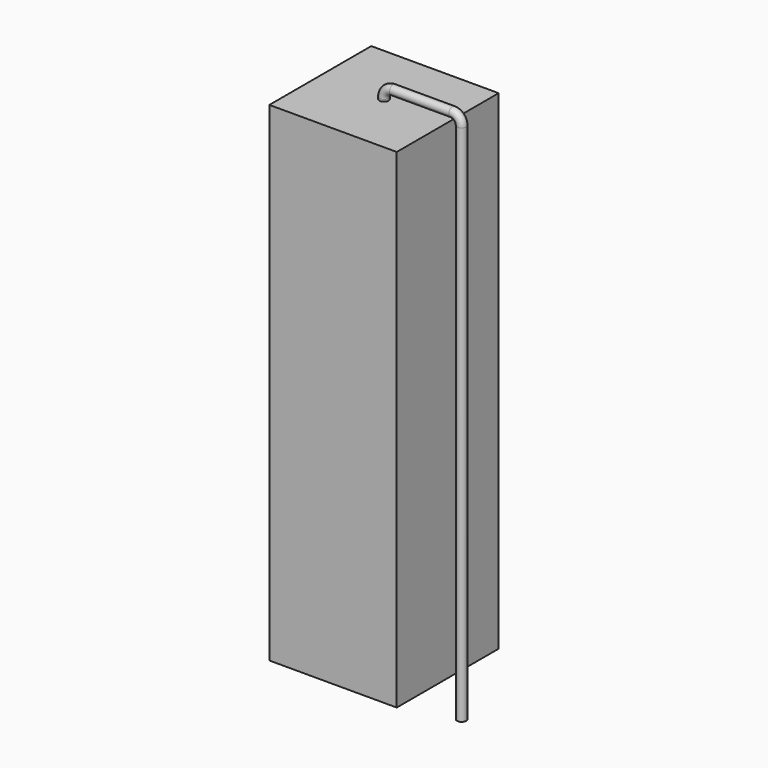
from build123d import *

# Parameters (mm, degrees)
SKETCH_R    = 0.45
SKETCH002_W = 12.5
SKETCH002_H = 48
PAD_DEPTH   = 6.25


with BuildPart() as sweep_body:
    # Sweep: sweep along a path in Sketch001
    with BuildLine(Plane.XZ) as sweep_path:
        Line((0, -3), (0, 48.3))
        ThreePointArc((0, 48.3), (0.263608, 48.9364), (0.900012, 49.2))
        Line((0.900012, 49.2), (6.72, 49.2))
        ThreePointArc((6.72, 49.2), (7.356396, 48.936396), (7.62, 48.3))
        Line((7.62, 48.3), (7.62, -3))
    # Sketch → Sweep (sweep)
    with BuildSketch(Plane.XY.offset(-2)):
        Circle(SKETCH_R)
    sweep(path=sweep_path.line)


with BuildPart() as pad:
    # Sketch002 → Pad (new body, symmetric)
    with BuildSketch(Plane.XZ):
        with Locations((0, 24.1)):
            Rectangle(SKETCH002_W, SKETCH002_H)
    extrude(amount=PAD_DEPTH, both=True)


solid = Compound([sweep_body.part, pad.part])
